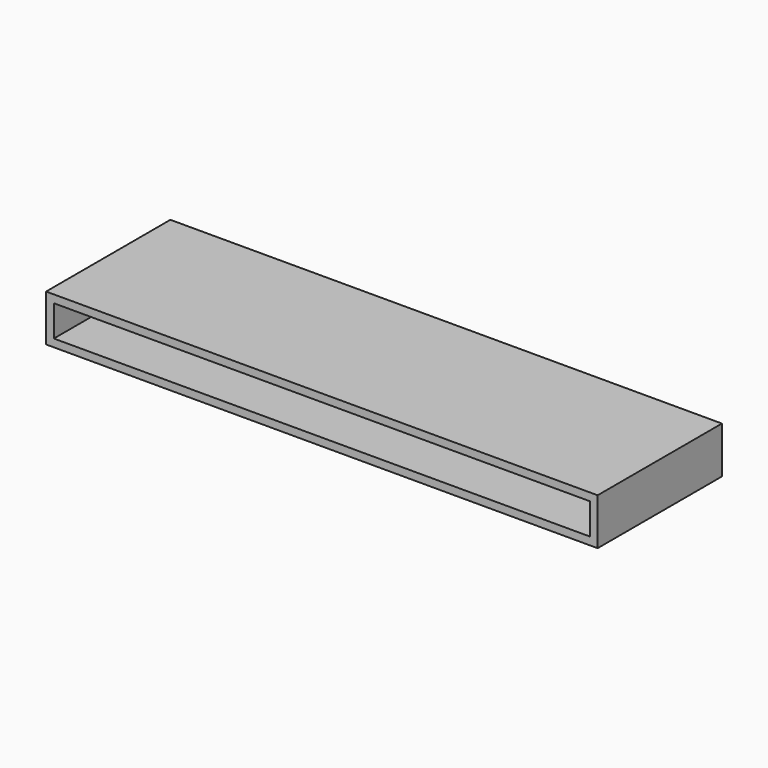
from build123d import *

# Parameters (mm, degrees)
F0_W          = 2.54
F0_H          = 2.54
F3_W          = 2.54
F3_H          = 2.54
F8_DEPTH      = 25.4
F8_DEPTH_BACK = 25.4


with BuildPart() as f2:
    # F2: sweep along a path in F1
    with BuildLine(Plane.XZ) as f2_path:
        Line((118.0932859957, 0), (-59.7067140043, 0))
        Line((-59.7067140043, 0), (-59.7067140043, 12.7))
        Line((-59.7067140043, 12.7), (118.0932859957, 12.7))
        Line((118.0932859957, 12.7), (118.0932859957, 0))
    # F0 (on Right) → F2 (sweep)
    with BuildSketch(Plane.YZ):
        Rectangle(F0_W, F0_H)
    sweep(path=f2_path.line, transition=Transition.RIGHT)

    # F8 (add, two sides): a face of the model
    f8_faces = [f2.faces().sort_by_distance(p)[0] for p in [
        (29.1932859957, -1.27, 13.2398279808),
    ]]
    extrude(f8_faces, amount=F8_DEPTH)
    extrude(f8_faces, amount=-F8_DEPTH_BACK)


with BuildPart() as f6:
    # F6: sweep along a path in F5
    with BuildLine(Plane(origin=(0, 1.27, 0), x_dir=(-1, 0, 0), z_dir=(0, 1, 0))) as f6_path:
        Line((59.1895133257, 0), (-31.8534299731, 14.0118226409))
        Line((-31.8534299731, 14.0118226409), (-116.2539571524, 0))
    # F3 (on face) → F6 (sweep)
    with BuildSketch(Plane.XY.offset(13.97)):
        with Locations((31.7332859957, 0)):
            Rectangle(F3_W, F3_H)
    sweep(path=f6_path.line, transition=Transition.RIGHT)


solid = f2.part
